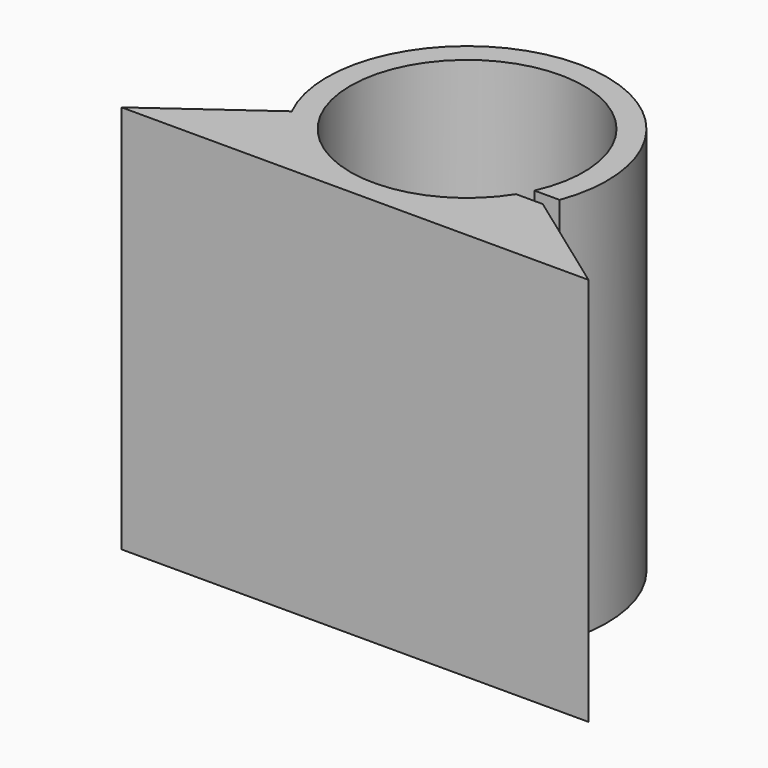
from build123d import *

# Parameters (mm, degrees)
PAD_DEPTH       = 25
POCKET_DEPTH    = 25.001
SKETCH002_W     = 2
SKETCH002_H     = 4
POCKET001_DEPTH = 65.001


with BuildPart() as part:
    # Sketch → Pad (new body)
    with BuildSketch(Plane.XY):
        with BuildLine():
            Line((-15, 0), (-8.062258, 5))
            ThreePointArc((8.062258, 5), (0, 18), (-8.062258, 5))
            Line((8.062258, 5), (15, 0))
            Line((-15, 0), (15, 0))
        make_face()
    extrude(amount=PAD_DEPTH)

    # Sketch001 → Pocket (cut, through all)
    with BuildSketch(Plane.XY):
        with BuildLine():
            ThreePointArc((6.820042, 5.879579), (-6.596841, 12.568149), (6.344289, 5))
            Line((6.344289, 5), (8.062258, 5))
            ThreePointArc((8.062258, 5), (8.26371, 5.434737), (8.44174, 5.879579))
            Line((6.820042, 5.879579), (8.44174, 5.879579))
        make_face()
    extrude(amount=POCKET_DEPTH, mode=Mode.SUBTRACT)

    # Sketch002 → Pocket001 (cut, through all)
    with BuildSketch(Plane.YZ.offset(50)):
        with Locations((3, 21)):
            Rectangle(SKETCH002_W, SKETCH002_H)
        with Locations((3, 4)):
            Rectangle(SKETCH002_W, SKETCH002_H)
    extrude(amount=-POCKET001_DEPTH, mode=Mode.SUBTRACT)


solid = part.part
